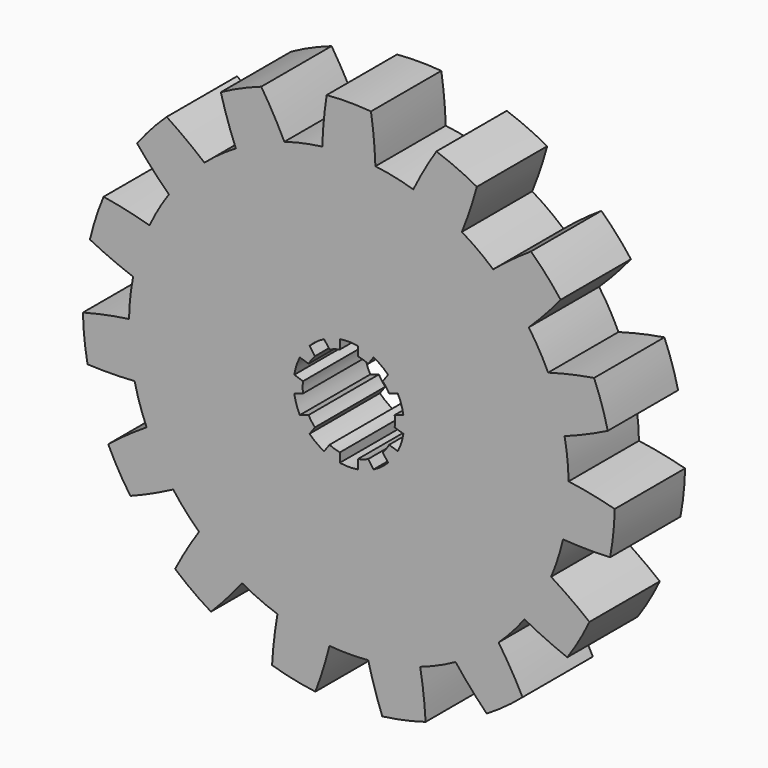
from build123d import *

# Parameters (mm, degrees)
F1_DEPTH = 20
F3_DEPTH = 20


with BuildPart() as f1:
    # F0 (on Front) → F1 (new body)
    with BuildSketch(Plane.XZ):
        with BuildLine():
            ThreePointArc((-58.895735, 13.839886), (-54.04719, 11.567733), (-49.072105, 9.587936))
            ThreePointArc((-49.072105, 9.587936), (-49.726095, 5.226423), (-49.993206, 0.824248))
            ThreePointArc((-49.993206, 0.824248), (-55.271196, -0.077907), (-60.486196, -1.29234))
            ThreePointArc((-60.486196, -1.29234), (-60.168575, -6.323972), (-59.43312, -11.311688))
            ThreePointArc((-59.43312, -11.311688), (-54.079586, -11.415323), (-48.729363, -11.200408))
            ThreePointArc((-48.729363, -11.200408), (-47.552826, -15.45085), (-46.006318, -19.581081))
            ThreePointArc((-46.006318, -19.581081), (-50.461062, -22.551992), (-54.731247, -25.782563))
            ThreePointArc((-54.731247, -25.782563), (-52.394537, -30.25), (-49.693979, -34.507369))
            ThreePointArc((-49.693979, -34.507369), (-44.76113, -32.424566), (-39.960872, -30.0521))
            ThreePointArc((-39.960872, -30.0521), (-37.157241, -33.45653), (-34.06452, -36.600663))
            ThreePointArc((-34.06452, -36.600663), (-36.925753, -41.126633), (-39.512769, -45.814747))
            ThreePointArc((-39.512769, -45.814747), (-35.561008, -48.945528), (-31.362297, -51.736412))
            ThreePointArc((-31.362297, -51.736412), (-27.703068, -47.827306), (-24.282783, -43.70751))
            ThreePointArc((-24.282783, -43.70751), (-20.336832, -45.677273), (-16.232657, -47.291657))
            ThreePointArc((-16.232657, -47.291657), (-17.005645, -52.590106), (-17.462174, -57.925145))
            ThreePointArc((-17.462174, -57.925145), (-12.578657, -59.17793), (-7.607789, -60.01976))
            ThreePointArc((-7.607789, -60.01976), (-5.854894, -54.960271), (-4.40598, -49.805495))
            ThreePointArc((-4.40598, -49.805495), (0, -50), (4.40598, -49.805495))
            ThreePointArc((4.40598, -49.805495), (5.854894, -54.960271), (7.607789, -60.01976))
            ThreePointArc((7.607789, -60.01976), (12.578657, -59.17793), (17.462174, -57.925145))
            ThreePointArc((17.462174, -57.925145), (17.005645, -52.590106), (16.232657, -47.291657))
            ThreePointArc((16.232657, -47.291657), (20.336832, -45.677273), (24.282783, -43.70751))
            ThreePointArc((24.282783, -43.70751), (27.703068, -47.827306), (31.362297, -51.736412))
            ThreePointArc((31.362297, -51.736412), (35.561008, -48.945528), (39.512769, -45.814747))
            ThreePointArc((39.512769, -45.814747), (36.925753, -41.126633), (34.06452, -36.600663))
            ThreePointArc((34.06452, -36.600663), (37.157241, -33.45653), (39.960872, -30.0521))
            ThreePointArc((39.960872, -30.0521), (44.76113, -32.424566), (49.693979, -34.507369))
            ThreePointArc((49.693979, -34.507369), (52.394537, -30.25), (54.731247, -25.782563))
            ThreePointArc((54.731247, -25.782563), (50.461062, -22.551992), (46.006318, -19.581081))
            ThreePointArc((46.006318, -19.581081), (47.552826, -15.45085), (48.729363, -11.200408))
            ThreePointArc((48.729363, -11.200408), (54.079586, -11.415323), (59.43312, -11.311688))
            ThreePointArc((59.43312, -11.311688), (60.168575, -6.323972), (60.486196, -1.29234))
            ThreePointArc((60.486196, -1.29234), (55.271196, -0.077907), (49.993206, 0.824248))
            ThreePointArc((49.993206, 0.824248), (49.726095, 5.226423), (49.072105, 9.587936))
            ThreePointArc((49.072105, 9.587936), (54.04719, 11.567733), (58.895735, 13.839886))
            ThreePointArc((58.895735, 13.839886), (57.538919, 18.695528), (55.782531, 23.421341))
            ThreePointArc((55.782531, 23.421341), (50.524438, 22.409649), (45.335814, 21.087057))
            ThreePointArc((45.335814, 21.087057), (43.30127, 25), (40.929834, 28.718438))
            ThreePointArc((40.929834, 28.718438), (44.669544, 32.550622), (48.174742, 36.598419))
            ThreePointArc((48.174742, 36.598419), (44.960262, 40.482402), (41.43356, 44.085259))
            ThreePointArc((41.43356, 44.085259), (37.041545, 41.022373), (32.839448, 37.703722))
            ThreePointArc((32.839448, 37.703722), (29.389263, 40.45085), (25.710422, 42.883262))
            ThreePointArc((25.710422, 42.883262), (27.568128, 47.905214), (29.123899, 53.028752))
            ThreePointArc((29.123899, 53.028752), (24.607567, 55.2695), (19.920351, 57.126435))
            ThreePointArc((19.920351, 57.126435), (17.153833, 52.541957), (14.664844, 47.801071))
            ThreePointArc((14.664844, 47.801071), (10.395585, 48.90738), (6.045446, 49.63318))
            ThreePointArc((6.045446, 49.63318), (5.699933, 54.976558), (5.037269, 60.289932))
            ThreePointArc((5.037269, 60.289932), (0, 60.5), (-5.037269, 60.289932))
            ThreePointArc((-5.037269, 60.289932), (-5.699933, 54.976558), (-6.045446, 49.63318))
            ThreePointArc((-6.045446, 49.63318), (-10.395585, 48.90738), (-14.664844, 47.801071))
            ThreePointArc((-14.664844, 47.801071), (-17.153833, 52.541957), (-19.920351, 57.126435))
            ThreePointArc((-19.920351, 57.126435), (-24.607567, 55.2695), (-29.123899, 53.028752))
            ThreePointArc((-29.123899, 53.028752), (-27.568128, 47.905214), (-25.710422, 42.883262))
            ThreePointArc((-25.710422, 42.883262), (-29.389263, 40.45085), (-32.839448, 37.703722))
            ThreePointArc((-32.839448, 37.703722), (-37.041545, 41.022373), (-41.43356, 44.085259))
            ThreePointArc((-41.43356, 44.085259), (-44.960262, 40.482402), (-48.174742, 36.598419))
            ThreePointArc((-48.174742, 36.598419), (-44.669544, 32.550622), (-40.929834, 28.718438))
            ThreePointArc((-40.929834, 28.718438), (-43.30127, 25), (-45.335814, 21.087057))
            ThreePointArc((-45.335814, 21.087057), (-50.524438, 22.409649), (-55.782531, 23.421341))
            ThreePointArc((-55.782531, 23.421341), (-57.538919, 18.695528), (-58.895735, 13.839886))
        make_face()
    extrude(amount=F1_DEPTH)

    # F2 (on Front) → F3 (cut)
    with BuildSketch(Plane.XZ):
        with BuildLine():
            ThreePointArc((10.427405, -1.232572), (10.481835, -0.617354), (10.5, 0))
            ThreePointArc((10.5, 0), (10.481835, 0.617354), (10.427405, 1.232572))
            ThreePointArc((10.427405, 1.232572), (9.986093, 3.244678), (9.160435, 5.131903))
            ThreePointArc((9.160435, 5.131903), (8.494678, 6.171745), (7.71146, 7.126246))
            ThreePointArc((7.71146, 7.126246), (6.171745, 8.494678), (4.39449, 9.536166))
            ThreePointArc((4.39449, 9.536166), (3.244678, 9.986093), (2.05, 10.297937))
            ThreePointArc((2.05, 10.297937), (0, 10.5), (-2.05, 10.297937))
            ThreePointArc((-2.05, 10.297937), (-3.244678, 9.986093), (-4.39449, 9.536166))
            ThreePointArc((-4.39449, 9.536166), (-6.171745, 8.494678), (-7.71146, 7.126246))
            ThreePointArc((-7.71146, 7.126246), (-8.494678, 6.171745), (-9.160435, 5.131903))
            ThreePointArc((-9.160435, 5.131903), (-9.986093, 3.244678), (-10.427405, 1.232572))
            ThreePointArc((-10.427405, 1.232572), (-10.5, 0), (-10.427405, -1.232572))
            ThreePointArc((-10.427405, -1.232572), (-9.986093, -3.244678), (-9.160435, -5.131903))
            ThreePointArc((-9.160435, -5.131903), (-8.494678, -6.171745), (-7.71146, -7.126246))
            ThreePointArc((-7.71146, -7.126246), (-6.171745, -8.494678), (-4.39449, -9.536166))
            ThreePointArc((-4.39449, -9.536166), (-3.244678, -9.986093), (-2.05, -10.297937))
            ThreePointArc((-2.05, -10.297937), (0, -10.5), (2.05, -10.297937))
            ThreePointArc((2.05, -10.297937), (3.244678, -9.986093), (4.39449, -9.536166))
            ThreePointArc((4.39449, -9.536166), (6.171745, -8.494678), (7.71146, -7.126246))
            ThreePointArc((7.71146, -7.126246), (8.494678, -6.171745), (9.160435, -5.131903))
            ThreePointArc((9.160435, -5.131903), (9.986093, -3.244678), (10.427405, -1.232572))
        make_face()
        with BuildLine():
            ThreePointArc((9.160435, 5.131903), (9.986093, 3.244678), (10.427405, 1.232572))
            Line((10.427405, 1.232572), (12.408932, 1.876409))
            ThreePointArc((12.408932, 1.876409), (11.935759, 3.878163), (11.141962, 5.775741))
            Line((11.141962, 5.775741), (9.160435, 5.131903))
        make_face()
        with BuildLine():
            Line((12.408932, -1.876409), (10.427405, -1.232572))
            ThreePointArc((10.427405, -1.232572), (9.986093, -3.244678), (9.160435, -5.131903))
            Line((9.160435, -5.131903), (11.141962, -5.775741))
            ThreePointArc((11.141962, -5.775741), (11.935759, -3.878163), (12.408932, -1.876409))
        make_face()
        with BuildLine():
            ThreePointArc((4.39449, 9.536166), (6.171745, 8.494678), (7.71146, 7.126246))
            Line((7.71146, 7.126246), (8.936111, 8.811834))
            ThreePointArc((8.936111, 8.811834), (7.376705, 10.153163), (5.619142, 11.221753))
            Line((5.619142, 11.221753), (4.39449, 9.536166))
        make_face()
        with BuildLine():
            Line((8.936111, -8.811834), (7.71146, -7.126246))
            ThreePointArc((7.71146, -7.126246), (6.171745, -8.494678), (4.39449, -9.536166))
            Line((4.39449, -9.536166), (5.619142, -11.221753))
            ThreePointArc((5.619142, -11.221753), (7.376705, -10.153163), (8.936111, -8.811834))
        make_face()
        with BuildLine():
            ThreePointArc((-2.05, 10.297937), (0, 10.5), (2.05, 10.297937))
            Line((2.05, 10.297937), (2.05, 12.381438))
            ThreePointArc((2.05, 12.381438), (0, 12.55), (-2.05, 12.381438))
            Line((-2.05, 12.381438), (-2.05, 10.297937))
        make_face()
        with BuildLine():
            Line((2.05, -12.381438), (2.05, -10.297937))
            ThreePointArc((2.05, -10.297937), (0, -10.5), (-2.05, -10.297937))
            Line((-2.05, -10.297937), (-2.05, -12.381438))
            ThreePointArc((-2.05, -12.381438), (0, -12.55), (2.05, -12.381438))
        make_face()
        with BuildLine():
            ThreePointArc((-7.71146, 7.126246), (-6.171745, 8.494678), (-4.39449, 9.536166))
            Line((-4.39449, 9.536166), (-5.619142, 11.221753))
            ThreePointArc((-5.619142, 11.221753), (-7.376705, 10.153163), (-8.936111, 8.811834))
            Line((-8.936111, 8.811834), (-7.71146, 7.126246))
        make_face()
        with BuildLine():
            Line((-5.619142, -11.221753), (-4.39449, -9.536166))
            ThreePointArc((-4.39449, -9.536166), (-6.171745, -8.494678), (-7.71146, -7.126246))
            Line((-7.71146, -7.126246), (-8.936111, -8.811834))
            ThreePointArc((-8.936111, -8.811834), (-7.376705, -10.153163), (-5.619142, -11.221753))
        make_face()
        with BuildLine():
            ThreePointArc((-10.427405, 1.232572), (-9.986093, 3.244678), (-9.160435, 5.131903))
            Line((-9.160435, 5.131903), (-11.141962, 5.775741))
            ThreePointArc((-11.141962, 5.775741), (-11.935759, 3.878163), (-12.408932, 1.876409))
            Line((-12.408932, 1.876409), (-10.427405, 1.232572))
        make_face()
        with BuildLine():
            Line((-11.141962, -5.775741), (-9.160435, -5.131903))
            ThreePointArc((-9.160435, -5.131903), (-9.986093, -3.244678), (-10.427405, -1.232572))
            Line((-10.427405, -1.232572), (-12.408932, -1.876409))
            ThreePointArc((-12.408932, -1.876409), (-11.935759, -3.878163), (-11.141962, -5.775741))
        make_face()
    extrude(amount=F3_DEPTH, mode=Mode.SUBTRACT)


solid = f1.part
